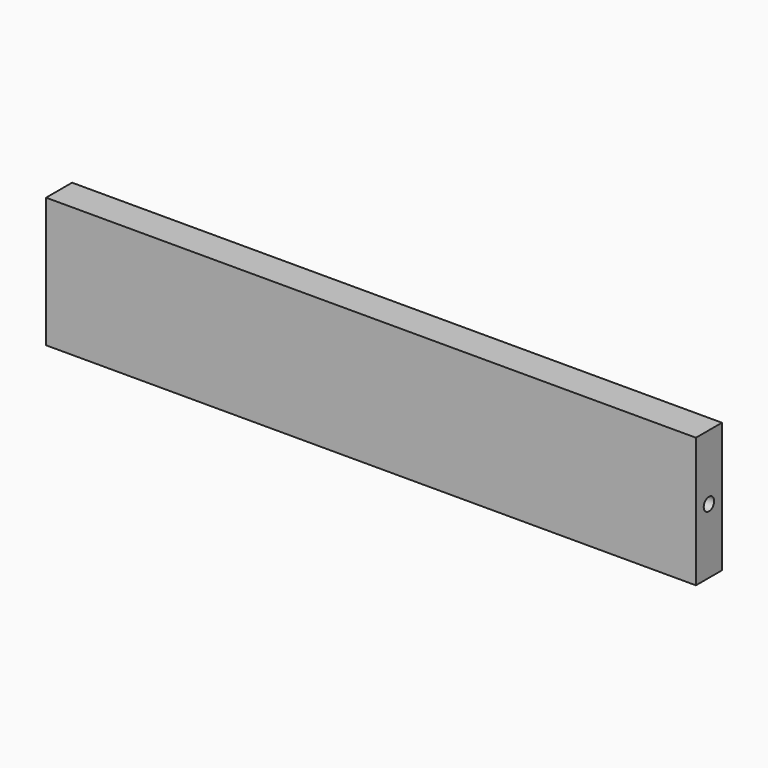
from build123d import *

# Parameters (mm, degrees)
F0_W     = 50
F0_H     = 10
F1_DEPTH = 1.25
F4_D     = 1
F4_DEPTH = 10
F4_TIP   = 0.3004303095
F5_D     = 1
F5_DEPTH = 10
F5_TIP   = 0.3004303095


with BuildPart() as f1:
    # F0 (on Front) → F1 (new body, symmetric)
    with BuildSketch(Plane.XZ):
        with Locations((9.8554845899, 23.4795556)):
            Rectangle(F0_W, F0_H)
    extrude(amount=F1_DEPTH, both=True)

    # F4
    with Locations(Plane.YZ.offset(34.8554845899)):
        with Locations((0, 23.4795556)):
            Hole(F4_D / 2, depth=F4_DEPTH)
            with Locations((0, 0, -(F4_DEPTH + F4_TIP / 2))):  # 118° drill point
                Cone(0, F4_D / 2, F4_TIP, mode=Mode.SUBTRACT)

    # F5
    with Locations(Plane(origin=(-15.1445154101, 0, 0), x_dir=(0, -1, 0), z_dir=(-1, 0, 0))):
        with Locations((0, 23.4795556)):
            Hole(F5_D / 2, depth=F5_DEPTH)
            with Locations((0, 0, -(F5_DEPTH + F5_TIP / 2))):  # 118° drill point
                Cone(0, F5_D / 2, F5_TIP, mode=Mode.SUBTRACT)


solid = f1.part
